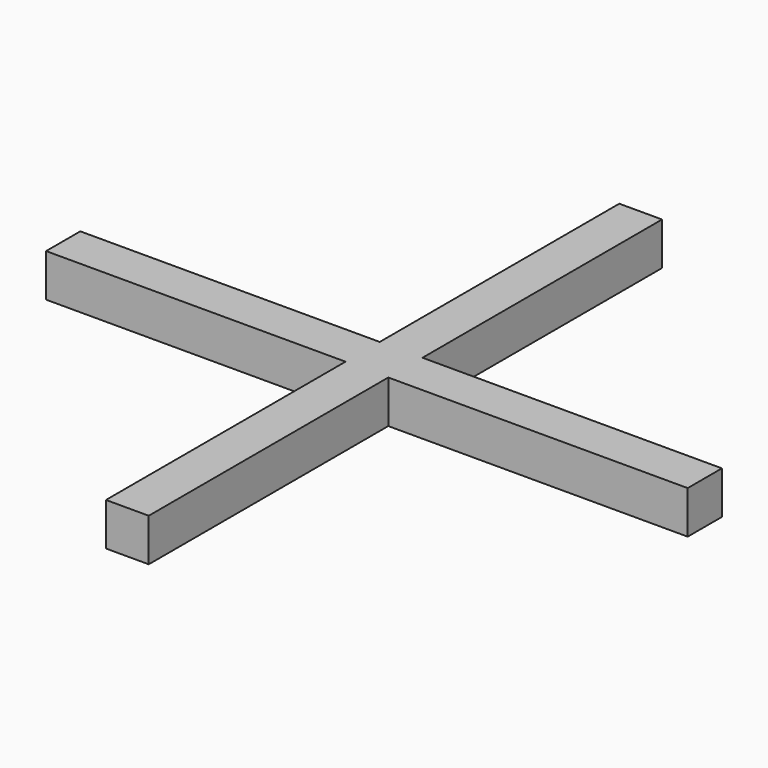
from build123d import *

# Parameters (mm, degrees)
F1_DEPTH = 5


with BuildPart() as f1:
    # F0 (on Top) → F1 (new body, symmetric)
    with BuildSketch(Plane.XY):
        Polygon((5, 75), (-5, 75), (-5, 5), (-75, 5), (-75, -5), (-5, -5), (-5, -75), (5, -75), (5, -5), (75, -5), (75, 5), (5, 5), align=None)
    extrude(amount=F1_DEPTH, both=True)


solid = f1.part
